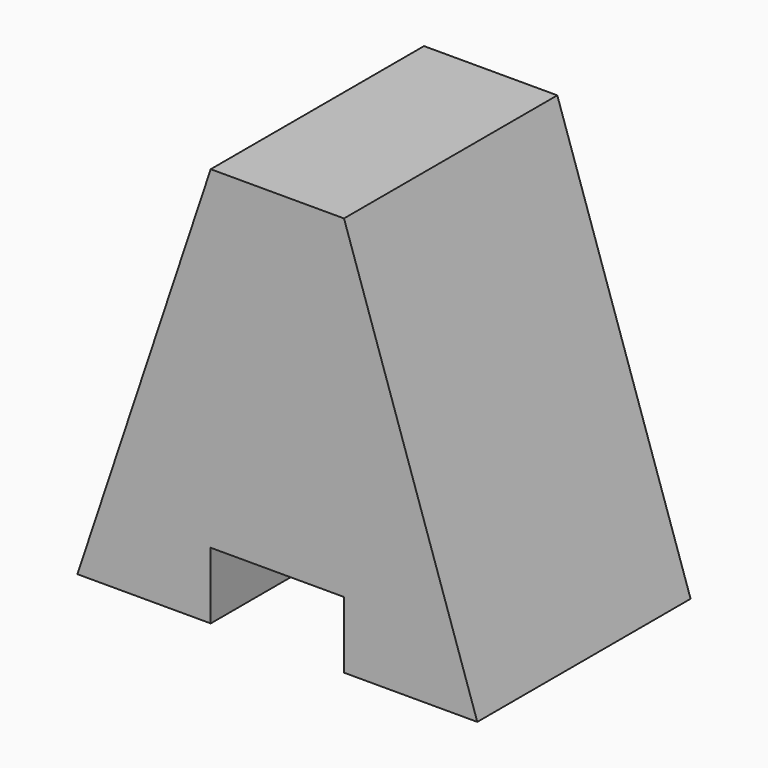
from build123d import *

# Parameters (mm, degrees)
F0_W     = 38.1
F0_H     = 38.1
F1_DEPTH = 25.4
F3_DEPTH = 25.4
F5_DEPTH = 25.4


with BuildPart() as f1:
    # F0 (on Front) → F1 (new body)
    with BuildSketch(Plane.XZ):
        with Locations((19.05, 19.05)):
            Rectangle(F0_W, F0_H)
    extrude(amount=F1_DEPTH)

    # F2 (on face) → F3 (cut)
    with BuildSketch(Plane.XZ.offset(25.4)):
        Polygon((0, 0), (12.7, 38.1), (0, 38.1), align=None)
        Polygon((38.1, 38.1), (25.4, 38.1), (38.1, 0), align=None)
    extrude(amount=-F3_DEPTH, mode=Mode.SUBTRACT)

    # F4 (on face) → F5 (cut)
    with BuildSketch(Plane.XZ.offset(25.4)):
        Polygon((12.7, 0), (19.05, 0), (25.4, 0), (25.4, 6.35), (12.7, 6.35), align=None)
    extrude(amount=-F5_DEPTH, mode=Mode.SUBTRACT)


solid = f1.part
